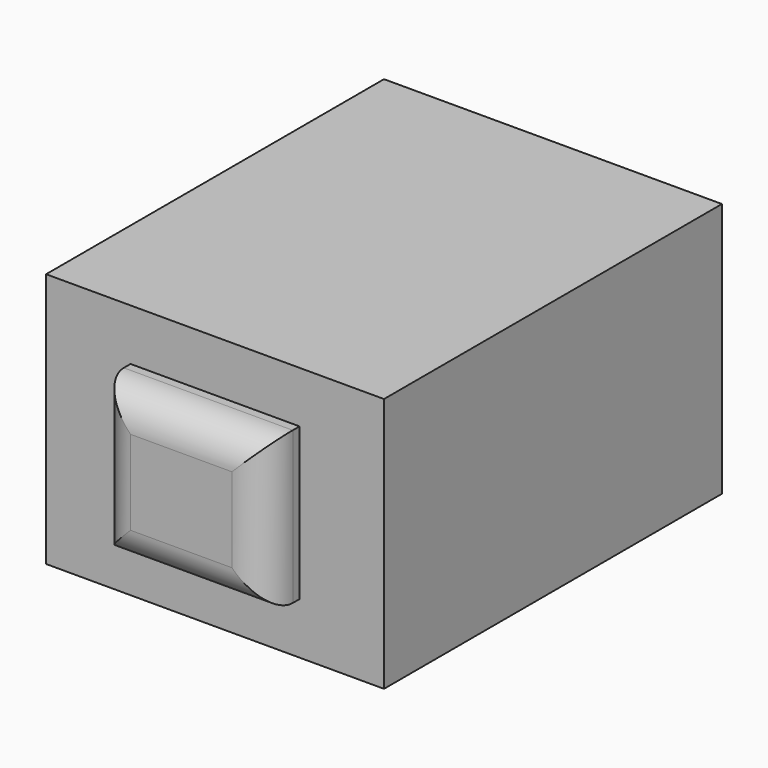
from build123d import *

# Parameters (mm, degrees)
F0_W      = 20
F0_H      = 15.1
F1_DEPTH  = 25
F3_R      = 3
F3_R_2    = 1
F4_DEPTH  = 1.5
F4_FACE_R = 1
F5_DEPTH  = 7
F6_R      = 1
F8_W      = 10
F8_H      = 9
F9_DEPTH  = 2.5
F10_R     = 2


with BuildPart() as f1:
    # F0 (on Front) → F1 (new body)
    with BuildSketch(Plane.XZ):
        Rectangle(F0_W, F0_H)
    extrude(amount=F1_DEPTH)

    # F3 (on offset) → F4 (join)
    with BuildSketch(Plane(origin=(0, 0, 0), x_dir=(1, 0, 0), z_dir=(0, 1, 0))):
        Circle(F3_R)
        Circle(F3_R_2, mode=Mode.SUBTRACT)
    extrude(amount=F4_DEPTH)

    # F4_face (on face) → F5 (join)
    with BuildSketch(Plane(origin=(0, 0, 0), x_dir=(1, 0, 0), z_dir=(0, 1, 0))):
        Circle(F4_FACE_R)
    extrude(amount=F5_DEPTH)

    # F6
    f6_edges = [f1.edges().sort_by_distance(p)[0] for p in [
        (-1, 7, 0),
    ]]
    fillet(f6_edges, radius=F6_R)

    # F8 (on offset) → F9 (join)
    with BuildSketch(Plane.XZ.offset(25)):
        Rectangle(F8_W, F8_H)
    extrude(amount=F9_DEPTH)

    # F10
    f10_edges = [f1.edges().sort_by_distance(p)[0] for p in [
        (0, -27.5, 4.5),
        (5, -27.5, 0),
        (-5, -27.5, 0),
        (0, -27.5, -4.5),
    ]]
    fillet(f10_edges, radius=F10_R)


solid = f1.part
